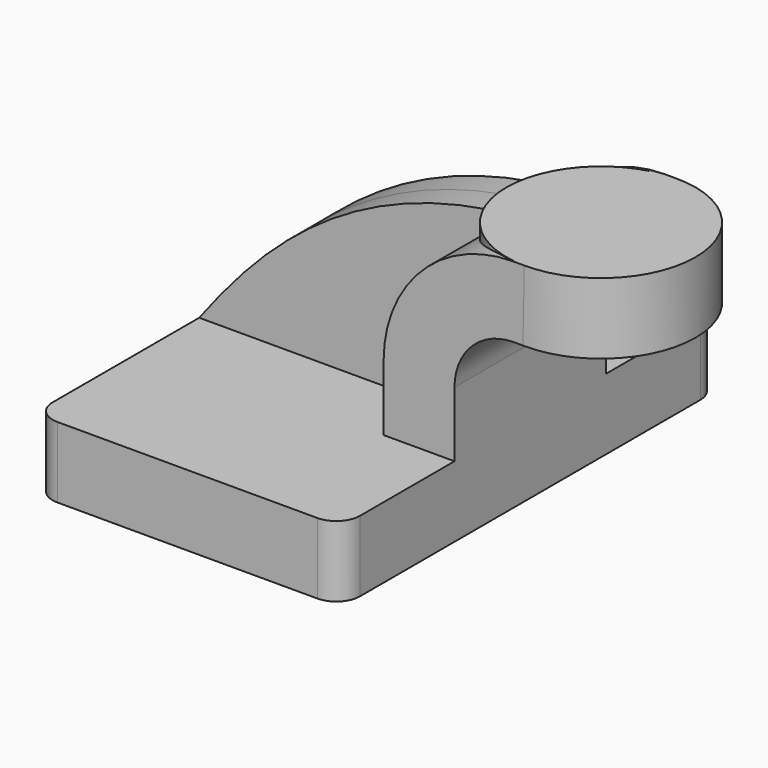
from build123d import *

# Parameters (mm, degrees)
F1_DEPTH = 63.5
F2_DEPTH = 25.4
F3_DEPTH = 7.9375
F5_R     = 6.35


with BuildPart() as f1:
    # F0 (on Front) → F1 (new body, symmetric)
    with BuildSketch(Plane.XZ):
        Polygon((41.275, -9.525), (41.275, 9.525), (22.225, 9.525), (-41.275, 9.525), (-41.275, -9.525), align=None)
    extrude(amount=F1_DEPTH, both=True)

    # F0 (on Front) → F2 (join, symmetric)
    with BuildSketch(Plane.XZ):
        with BuildLine():
            Line((22.225, 9.525), (41.275, 9.525))
            Line((41.275, 9.525), (41.275, 27.0002))
            ThreePointArc((41.275, 27.0002), (45.9246798487, 38.2255201513), (57.15, 42.8752))
            Line((57.15, 42.8752), (60.325, 42.8752))
            Line((60.325, 42.8752), (60.325, 61.9252))
            Line((60.325, 61.9252), (57.15, 61.9252))
            ThreePointArc((57.15, 61.9252), (32.4542956671, 51.6959043329), (22.225, 27.0002))
            Line((22.225, 27.0002), (22.225, 9.525))
        make_face()
    extrude(amount=F2_DEPTH, both=True)

    # F0 (on Front) → F3 (join, symmetric)
    with BuildSketch(Plane.XZ):
        with BuildLine():
            Line((-41.275, 9.525), (22.225, 9.525))
            Line((22.225, 9.525), (22.225, 27.0002))
            ThreePointArc((22.225, 27.0002), (32.4542956671, 51.6959043329), (57.15, 61.9252))
            add(Edge.make_bspline(
                [(57.15, 61.9252), (4.0777479298, 61.9457326829), (-22.87033014, 33.9522510767), (-41.275, 9.525)],
                knots=[0, 0, 0, 0, 111.5045361635, 111.5045361635, 111.5045361635, 111.5045361635], degree=3))
        make_face()
    extrude(amount=F3_DEPTH, both=True)

    # F0 (on Front) → F4 (revolve)
    with BuildSketch(Plane.XZ):
        Polygon((60.325, 61.9252), (60.325, 42.8752), (85.7335714616, 42.8752), (85.7267106332, 61.9252), align=None)
    revolve(axis=Axis((60.325, 0, 52.3875), (0, 0, 1)))

    # F5
    f5_edges = [f1.edges().sort_by_distance(p)[0] for p in [
        (41.275, -63.5, 0),
        (-41.275, -63.5, 0),
        (-41.275, 63.5, 0),
        (41.275, 63.5, 0),
    ]]
    fillet(f5_edges, radius=F5_R)


solid = f1.part
